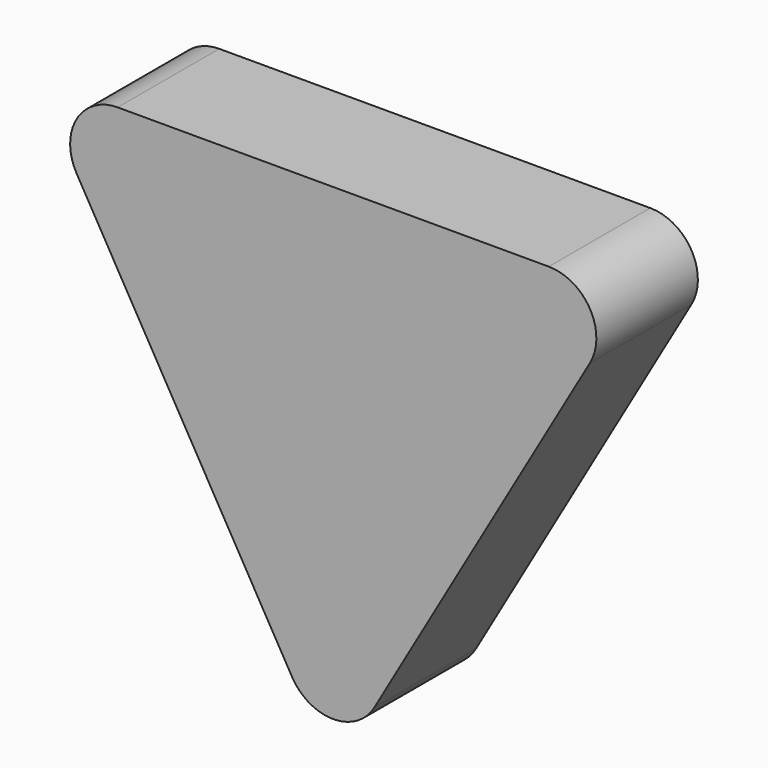
from build123d import *

# Parameters (mm, degrees)
F1_DEPTH = 40


with BuildPart() as f1:
    # F0 (on Front) → F1 (new body)
    with BuildSketch(Plane.XZ):
        with BuildLine():
            Line((67.942305, 54.226508), (-67.942305, 54.226508))
            ThreePointArc((-67.942305, 54.226508), (-80.932686, 46.726508), (-80.932686, 31.726508))
            Line((-80.932686, 31.726508), (-12.990381, -85.953016))
            ThreePointArc((-12.990381, -85.953016), (0, -93.453016), (12.990381, -85.953016))
            Line((12.990381, -85.953016), (80.932686, 31.726508))
            ThreePointArc((80.932686, 31.726508), (80.932686, 46.726508), (67.942305, 54.226508))
        make_face()
    extrude(amount=-F1_DEPTH)


solid = f1.part
